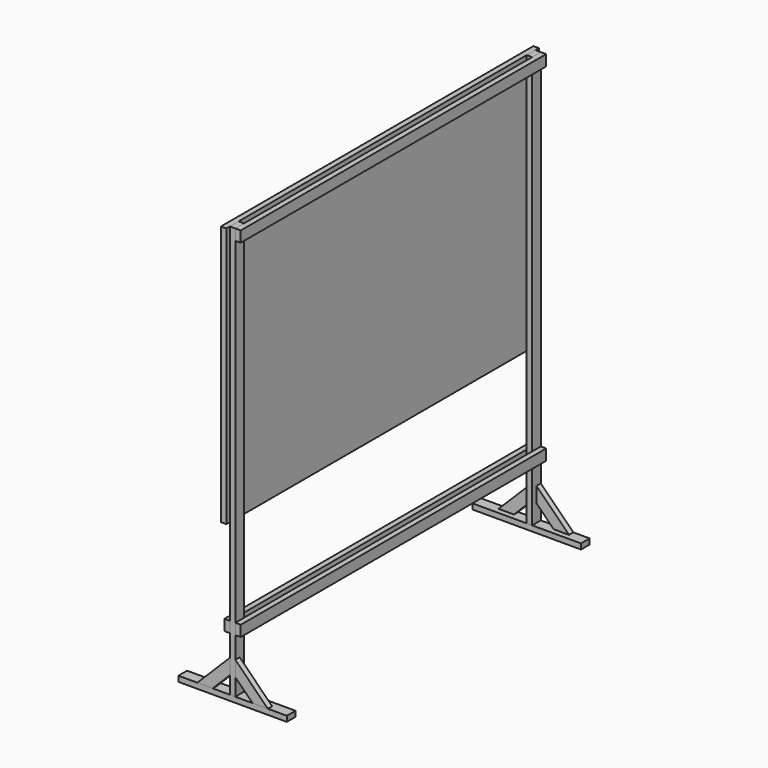
from build123d import *

# Parameters (mm, degrees)
F0_W      = 1800
F0_H      = 1200
F1_DEPTH  = 25
F3_W      = 50
F3_H      = 1900
F4_DEPTH  = 25
F5_W      = 1760
F5_H      = 50
F6_DEPTH  = 25
F7_W      = 1760
F7_H      = 50
F8_DEPTH  = 25
F9_W      = 500
F9_H      = 50
F10_DEPTH = 25
F12_DEPTH = 25
F14_DEPTH = 25


with BuildPart() as f1:
    # F0 (on Right) → F1 (new body)
    with BuildSketch(Plane.YZ):
        Rectangle(F0_W, F0_H)
    extrude(amount=F1_DEPTH)


with BuildPart() as f4:
    # F3 (on face) → F4 (new body)
    with BuildSketch(Plane.YZ.offset(25)):
        with Locations((-855, -350)):
            Rectangle(F3_W, F3_H)
    extrude(amount=F4_DEPTH)


with BuildPart() as f4b:
    # F3 (on face) → F4, piece 2 (new body)
    with BuildSketch(Plane.YZ.offset(25)):
        with Locations((855, -350)):
            Rectangle(F3_W, F3_H)
    extrude(amount=F4_DEPTH)


with BuildPart() as f6:
    # F5 (on face) → F6 (new body)
    with BuildSketch(Plane.YZ.offset(50)):
        with Locations((0, -1025)):
            Rectangle(F5_W, F5_H)
    extrude(amount=F6_DEPTH)


with BuildPart() as f8:
    # F7 (on face) → F8 (new body)
    with BuildSketch(Plane(origin=(25, 0, 0), x_dir=(0, -1, 0), z_dir=(-1, 0, 0))):
        with Locations((0, -1025)):
            Rectangle(F7_W, F7_H)
    extrude(amount=F8_DEPTH)


with BuildPart() as f10:
    # F9 (on face) → F10 (new body)
    with BuildSketch(Plane(origin=(0, 0, -1300), x_dir=(1, 0, 0), z_dir=(0, 0, -1))):
        with Locations((37.5, 855)):
            Rectangle(F9_W, F9_H)
    extrude(amount=F10_DEPTH)


with BuildPart() as f10b:
    # F9 (on face) → F10, piece 2 (new body)
    with BuildSketch(Plane(origin=(0, 0, -1300), x_dir=(1, 0, 0), z_dir=(0, 0, -1))):
        with Locations((25, -855.2042007446)):
            Rectangle(F9_W, F9_H)
    extrude(amount=F10_DEPTH)


with BuildPart() as f12:
    # F11 (on face) → F12 (new body)
    with BuildSketch(Plane.XZ.offset(880)):
        Polygon((-54.2893218813, -1300), (25, -1220.7106781187), (25, -1150), (-125, -1300), align=None)
    extrude(amount=-F12_DEPTH)


with BuildPart() as f12b:
    # F11 (on face) → F12, piece 2 (new body)
    with BuildSketch(Plane.XZ.offset(880)):
        Polygon((200, -1300), (50, -1150), (50, -1220.7106781187), (129.2893218813, -1300), align=None)
    extrude(amount=-F12_DEPTH)


with BuildPart() as f14:
    # F13 (on face) → F14 (new body)
    with BuildSketch(Plane(origin=(0, 880.2042007446, 0), x_dir=(-1, 0, 0), z_dir=(0, 1, 0))):
        Polygon((-129.2893096805, -1300), (-50, -1220.7106903195), (-50, -1150), (-200, -1300), align=None)
    extrude(amount=-F14_DEPTH)


with BuildPart() as f14b:
    # F13 (on face) → F14, piece 2 (new body)
    with BuildSketch(Plane(origin=(0, 880.2042007446, 0), x_dir=(-1, 0, 0), z_dir=(0, 1, 0))):
        Polygon((-25, -1150), (-25, -1220.7106923684), (54.2893076316, -1300), (125, -1300), align=None)
    extrude(amount=-F14_DEPTH)


with BuildPart() as f15_1:
    # F15: copy of F6
    add(f6.part.moved(Location((0, 0, 1600))))


solid = Compound([f1.part, f4.part, f4b.part, f6.part, f8.part, f10.part, f10b.part, f12.part, f12b.part, f14.part, f14b.part, f15_1.part])
